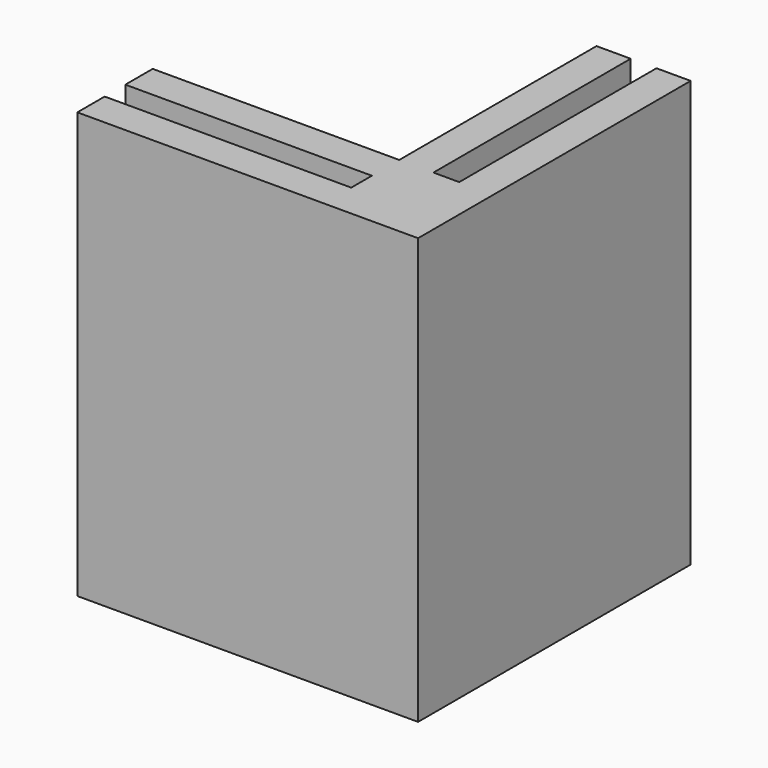
from build123d import *

# Parameters (mm, degrees)
F1_DEPTH = 25.4


with BuildPart() as f1:
    # F0 (on Top) → F1 (new body)
    with BuildSketch(Plane.XY):
        Polygon((-59.812622, -26.01943), (-59.812622, -28.058639), (-39.488083, -28.058639), (-39.488083, -7.734099), (-41.527292, -7.734099), (-41.527292, -22.441056), (-43.066457, -22.441056), (-43.066457, -7.734099), (-45.105666, -7.734099), (-45.105666, -22.441056), (-59.812622, -22.441056), (-59.812622, -24.480265), (-45.105666, -24.480265), (-45.105666, -26.01943), align=None)
        Polygon((-59.812622, -26.01943), (-59.812622, -28.058639), (-39.488083, -28.058639), (-39.488083, -7.734099), (-41.527292, -7.734099), (-41.527292, -22.441056), (-43.066457, -22.441056), (-43.066457, -7.734099), (-45.105666, -7.734099), (-45.105666, -22.441056), (-59.812622, -22.441056), (-59.812622, -24.480265), (-45.105666, -24.480265), (-45.105666, -26.01943), align=None)
    extrude(amount=F1_DEPTH)


solid = f1.part
